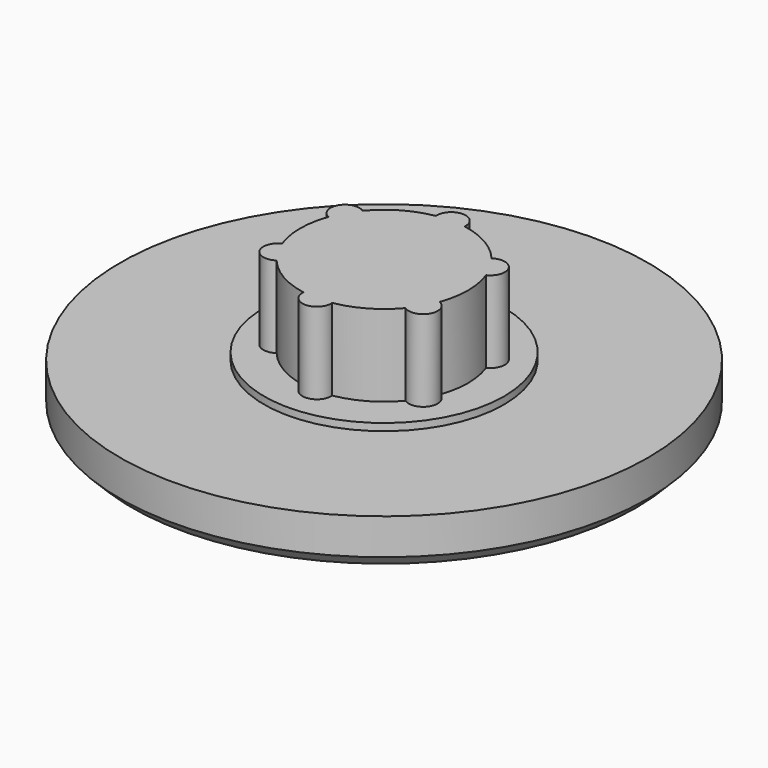
from build123d import *

# Parameters (mm, degrees)
SKETCH_R           = 11
PAD_DEPTH          = 2
CHAMFER_SIZE       = 0.5
SKETCH001_R        = 5
PAD001_DEPTH       = 0.3
SKETCH002_R        = 3.5
PAD002_DEPTH       = 3.4
SKETCH003_R        = 0.6
PAD003_DEPTH       = 3.4
POLARPATTERN_COUNT = 6


with BuildPart() as part:
    # Sketch → Pad (new body)
    with BuildSketch(Plane.XY):
        Circle(SKETCH_R)
    extrude(amount=PAD_DEPTH)

    # Chamfer
    chamfer_edges = [part.edges().sort_by_distance(p)[0] for p in [
        (-11, 0, 0),
    ]]
    chamfer(chamfer_edges, length=CHAMFER_SIZE)

    # Sketch001 → Pad001 (new body)
    with BuildSketch(Plane.XY.offset(2)):
        Circle(SKETCH001_R)
    extrude(amount=PAD001_DEPTH)

    # Sketch002 → Pad002 (new body)
    with BuildSketch(Plane.XY.offset(2.3)):
        Circle(SKETCH002_R)
    extrude(amount=PAD002_DEPTH)

    # Sketch003 → Pad003 (new body)
    with BuildSketch(Plane.XY.offset(2.3)):
        with Locations((0, 3.5)):
            Circle(SKETCH003_R)
    pad003 = extrude(amount=PAD003_DEPTH)

    # PolarPattern: Pad003 ×6 about axis
    polarpattern_axis = Axis((0, 0, 2.3), (0, 0, 1))
    for i in range(1, POLARPATTERN_COUNT):
        add(pad003.rotate(polarpattern_axis, i * 360 / POLARPATTERN_COUNT))


solid = part.part
